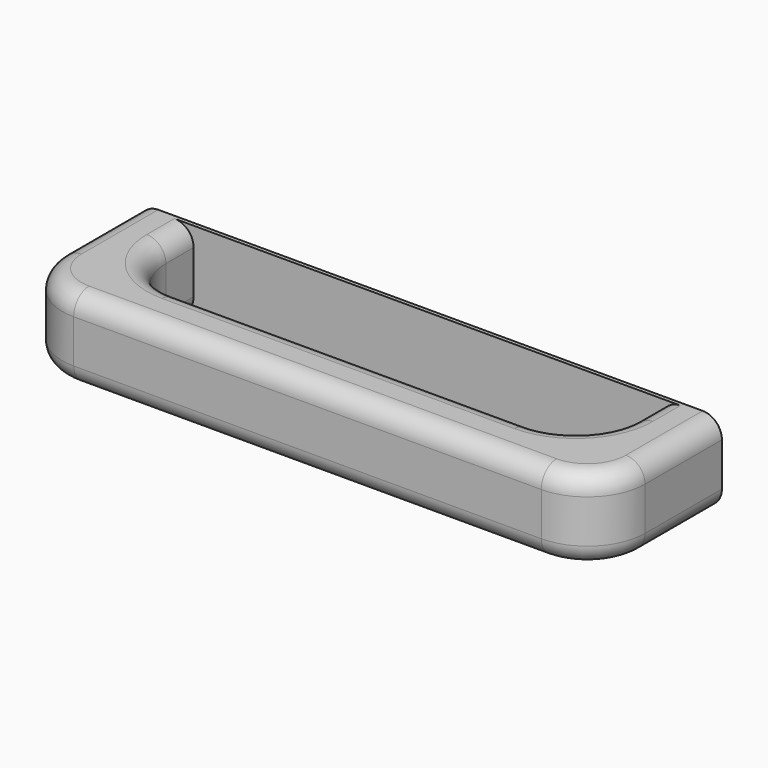
from build123d import *

# Parameters (mm, degrees)
SKETCH010_W     = 151.632408
SKETCH010_H     = 21.2714
PAD007_DEPTH    = 40
SKETCH011_W     = 121.632408
SKETCH011_H     = 24
POCKET003_DEPTH = 21.2724
FILLET002_R     = 15
FILLET003_R     = 5


with BuildPart() as part:
    # Sketch010 (on Face1 of CopyPocket002) → Pad007 (new body)
    with BuildSketch(Plane.XZ.offset(825)):
        with Locations((-597.5, -79.507206)):
            Rectangle(SKETCH010_W, SKETCH010_H)
    extrude(amount=PAD007_DEPTH)

    # Sketch011 (on Face3 of Pad007) → Pocket003 (cut, through all)
    with BuildSketch(Plane(origin=(0, 0, -68.871506), x_dir=(-1, 0, 0), z_dir=(0, 0, 1))):
        with Locations((597.5, 838)):
            Rectangle(SKETCH011_W, SKETCH011_H)
    extrude(amount=-POCKET003_DEPTH, mode=Mode.SUBTRACT)

    # Fillet002
    fillet002_edges = [part.edges().sort_by_distance(p)[0] for p in [
        (-536.683796, -850, -79.507206),
        (-521.683796, -865, -79.507206),
        (-658.316204, -850, -79.507206),
        (-673.316204, -865, -79.507206),
    ]]
    fillet(fillet002_edges, radius=FILLET002_R)

    # Fillet003
    fillet003_edges = [part.edges().sort_by_distance(p)[0] for p in [
        (-597.5, -865, -68.871506),
        (-597.5, -865, -90.142906),
        (-597.5, -850, -68.871506),
        (-597.5, -850, -90.142906),
    ]]
    fillet(fillet003_edges, radius=FILLET003_R)


solid = part.part
